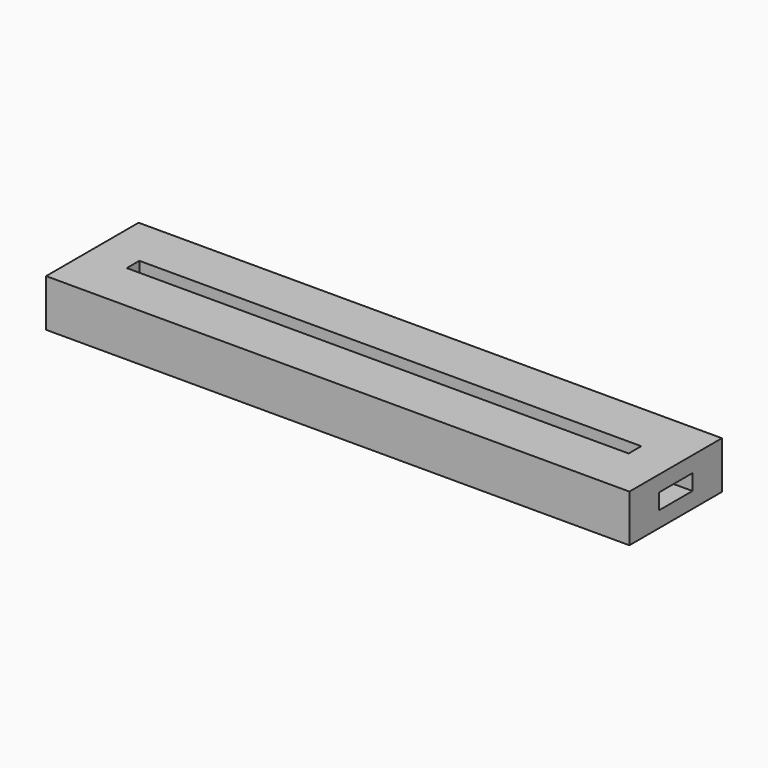
from build123d import *

# Parameters (mm, degrees)
SKETCH_W      = 111
SKETCH_H      = 22
PAD_DEPTH     = 3
PAD001_DEPTH  = 3
SKETCH002_W   = 111
SKETCH002_H   = 22
SKETCH002_W_2 = 95.5
SKETCH002_H_2 = 3
PAD002_DEPTH  = 3


with BuildPart() as part:
    # Sketch → Pad (new body)
    with BuildSketch(Plane.XY):
        Rectangle(SKETCH_W, SKETCH_H)
    extrude(amount=PAD_DEPTH)

    # Sketch001 (on Face6 of Pad) → Pad001 (join)
    with BuildSketch(Plane.XY.offset(3)):
        Polygon((-55.5, 11), (55.5, 11), (55.5, 4), (50, 4), (50, 5), (-50, 5), (-50, 4), (-55.5, 4), align=None)
        Polygon((-55.5, -11), (55.5, -11), (55.5, -4), (50, -4), (50, -5), (-50, -5), (-50, -4), (-55.5, -4), align=None)
    extrude(amount=PAD001_DEPTH)

    # Sketch002 (on Face12 of Pad001) → Pad002 (join)
    with BuildSketch(Plane.XY.offset(6)):
        Rectangle(SKETCH002_W, SKETCH002_H)
        Rectangle(SKETCH002_W_2, SKETCH002_H_2, mode=Mode.SUBTRACT)
    extrude(amount=PAD002_DEPTH)


solid = part.part
